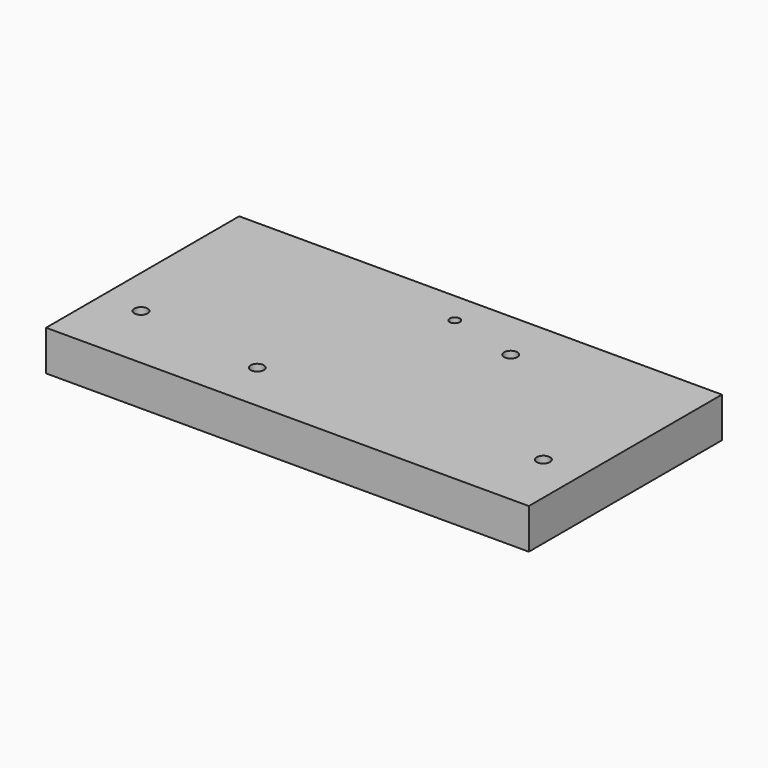
from build123d import *

# Parameters (mm, degrees)
F0_W     = 120
F0_H     = 60
F0_R     = 1.65
F0_R_2   = 1.25
F1_DEPTH = 10


with BuildPart() as f1:
    # F0 (on Top) → F1 (new body)
    with BuildSketch(Plane.XY):
        Rectangle(F0_W, F0_H)
        with Locations((-17.5, -17.5)):
            Circle(F0_R, mode=Mode.SUBTRACT)
        with Locations((-50, -13)):
            Circle(F0_R, mode=Mode.SUBTRACT)
        with Locations((50, -13)):
            Circle(F0_R, mode=Mode.SUBTRACT)
        with Locations((0, 22)):
            Circle(F0_R_2, mode=Mode.SUBTRACT)
        with Locations((17.5, 17.5)):
            Circle(F0_R, mode=Mode.SUBTRACT)
        Rectangle(F0_W, F0_H)
        with Locations((-17.5, -17.5)):
            Circle(F0_R, mode=Mode.SUBTRACT)
        with Locations((-50, -13)):
            Circle(F0_R, mode=Mode.SUBTRACT)
        with Locations((50, -13)):
            Circle(F0_R, mode=Mode.SUBTRACT)
        with Locations((0, 22)):
            Circle(F0_R_2, mode=Mode.SUBTRACT)
        with Locations((17.5, 17.5)):
            Circle(F0_R, mode=Mode.SUBTRACT)
    extrude(amount=F1_DEPTH)


solid = f1.part
